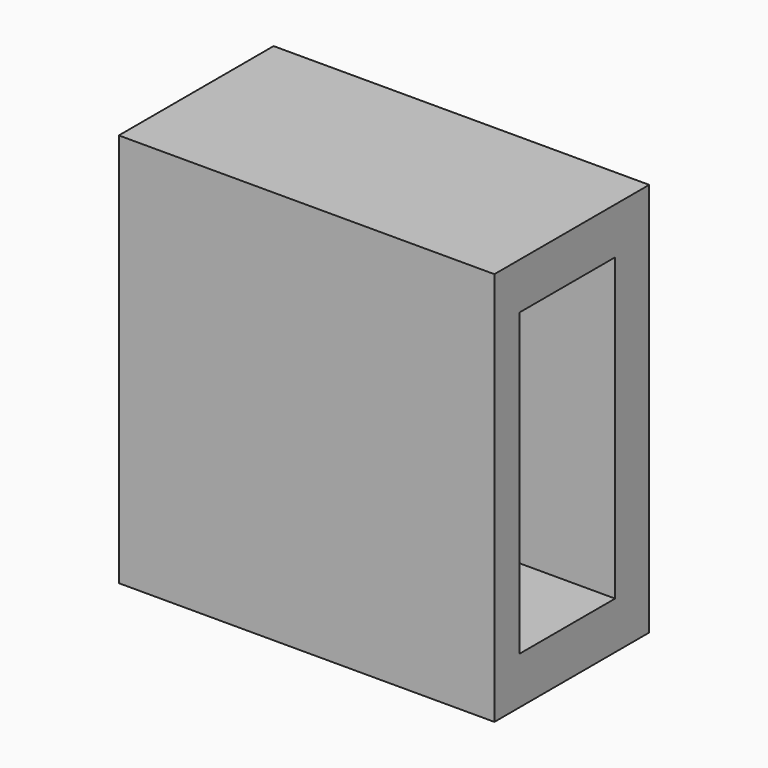
from build123d import *

# Parameters (mm, degrees)
F0_W     = 49.3073053658
F0_H     = 51.7472587526
F1_DEPTH = 25.4
F2_W     = 15.6563417986
F2_H     = 39.4458412193
F3_DEPTH = 46.99


with BuildPart() as f1:
    # F0 (on Front) → F1 (new body)
    with BuildSketch(Plane.XZ):
        with Locations((-24.6536526829, 25.8736293763)):
            Rectangle(F0_W, F0_H)
    extrude(amount=F1_DEPTH)

    # F2 (on face) → F3 (cut)
    with BuildSketch(Plane.YZ):
        with Locations((-13.4197208099, 25.9244584013)):
            Rectangle(F2_W, F2_H)
    extrude(amount=-F3_DEPTH, mode=Mode.SUBTRACT)


solid = f1.part
